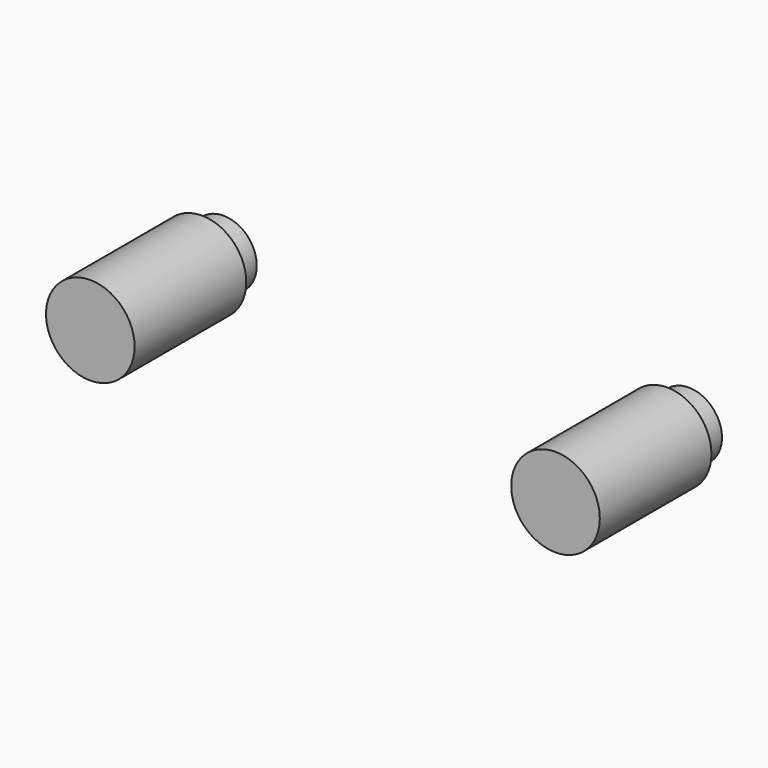
from build123d import *

# Parameters (mm, degrees)
F0_R     = 10
F1_DEPTH = 31.496
F2_R     = 7.5
F3_DEPTH = 6.096


with BuildPart() as f1:
    # F0 (on Front) → F1 (new body)
    with BuildSketch(Plane.XZ):
        with Locations((-41.731834, 0)):
            Circle(F0_R)
        with Locations((63.268166, 0)):
            Circle(F0_R)
    extrude(amount=-F1_DEPTH)


with BuildPart() as f3:
    # F2 (on face) → F3 (new body)
    with BuildSketch(Plane(origin=(0, 31.496, 0), x_dir=(-1, 0, 0), z_dir=(0, 1, 0))):
        with Locations((41.731834, 0)):
            Circle(F2_R)
        with Locations((-63.268166, 0)):
            Circle(F2_R)
    extrude(amount=F3_DEPTH)


solid = Compound([f1.part, f3.part])
